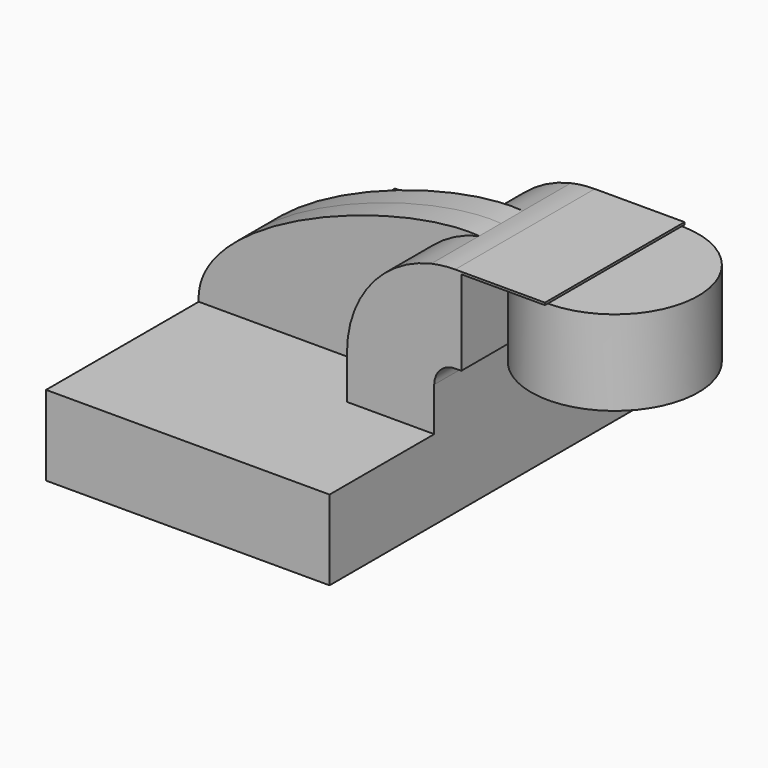
from build123d import *

# Parameters (mm, degrees)
F1_DEPTH = 63.5
F2_DEPTH = 25.4
F3_DEPTH = 7.9375
F0_W     = 24.367564
F0_H     = 24.745591


with BuildPart() as f1:
    # F0 (on Front) → F1 (new body, symmetric)
    with BuildSketch(Plane.XZ):
        Polygon((15.875, 11.638373), (-41.275, 11.638373), (-41.275, -11.638373), (41.275, -11.638373), (41.275, 11.638373), align=None)
    extrude(amount=F1_DEPTH, both=True)

    # F0 (on Front) → F2 (join, symmetric)
    with BuildSketch(Plane.XZ):
        with BuildLine():
            Line((15.875, 24.338373), (15.875, 11.638373))
            Line((15.875, 11.638373), (41.275, 11.638373))
            Line((41.275, 11.638373), (41.275, 24.338373))
            ThreePointArc((41.275, 24.338373), (43.063038, 28.655079), (47.379744, 30.443118))
            Line((47.379744, 30.443118), (49.161999, 30.443118))
            Line((49.161999, 30.443118), (49.161999, 55.188709))
            Line((49.161999, 55.188709), (73.529563, 55.188709))
            Line((73.529563, 55.188709), (73.529563, 55.843118))
            Line((73.529563, 55.843118), (47.379744, 55.843118))
            ThreePointArc((47.379744, 55.843118), (43.875523, 55.647627), (40.414789, 55.06358))
            ThreePointArc((40.414789, 55.06358), (22.7629, 43.9995), (15.875, 24.338373))
        make_face()
    extrude(amount=F2_DEPTH, both=True)

    # F0 (on Front) → F3 (join, symmetric)
    with BuildSketch(Plane.XZ):
        with BuildLine():
            add(Edge.make_bspline(
                [(-41.275, 11.638373), (-42.812973, 35.437204), (16.937252, 57.027623), (40.414789, 55.06358)],
                knots=[0, 0, 0, 0, 92.514703, 92.514703, 92.514703, 92.514703], degree=3))
            Line((-41.275, 11.638373), (15.875, 11.638373))
            Line((15.875, 11.638373), (15.875, 24.338373))
            ThreePointArc((15.875, 24.338373), (22.7629, 43.9995), (40.414789, 55.06358))
        make_face()
    extrude(amount=F3_DEPTH, both=True)


with BuildPart() as f4:
    # F0 (on Front) → F4 (revolve)
    with BuildSketch(Plane.XZ):
        with Locations((61.345781, 42.815913)):
            Rectangle(F0_W, F0_H)
    revolve(axis=Axis((73.529563, 0, 43.143118), (0, 0, -1)))


solid = Compound([f1.part, f4.part])
